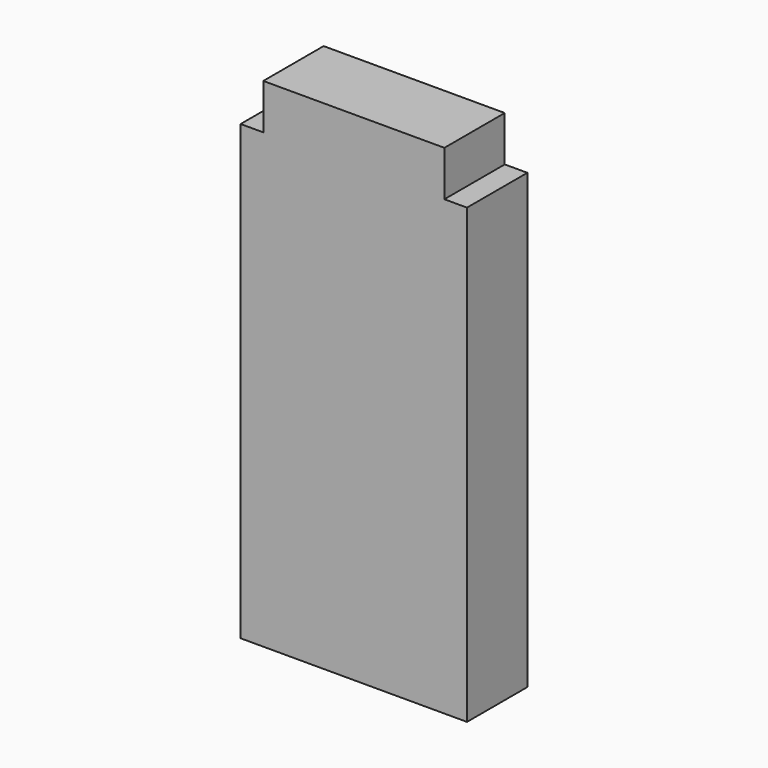
from build123d import *

# Parameters (mm, degrees)
F0_W     = 30
F0_H     = 10
F1_DEPTH = 40
F2_W     = 30
F2_H     = 10
F3_DEPTH = 20
F4_W     = 24
F4_H     = 10
F5_DEPTH = 6


with BuildPart() as f1:
    # F0 (on Top) → F1 (new body)
    with BuildSketch(Plane.XY):
        Rectangle(F0_W, F0_H)
    extrude(amount=F1_DEPTH)

    # F2 (on face) → F3 (join)
    with BuildSketch(Plane.XY.offset(40)):
        Rectangle(F2_W, F2_H)
    extrude(amount=F3_DEPTH)

    # F4 (on face) → F5 (join)
    with BuildSketch(Plane.XY.offset(60)):
        Rectangle(F4_W, F4_H)
    extrude(amount=F5_DEPTH)


solid = f1.part
